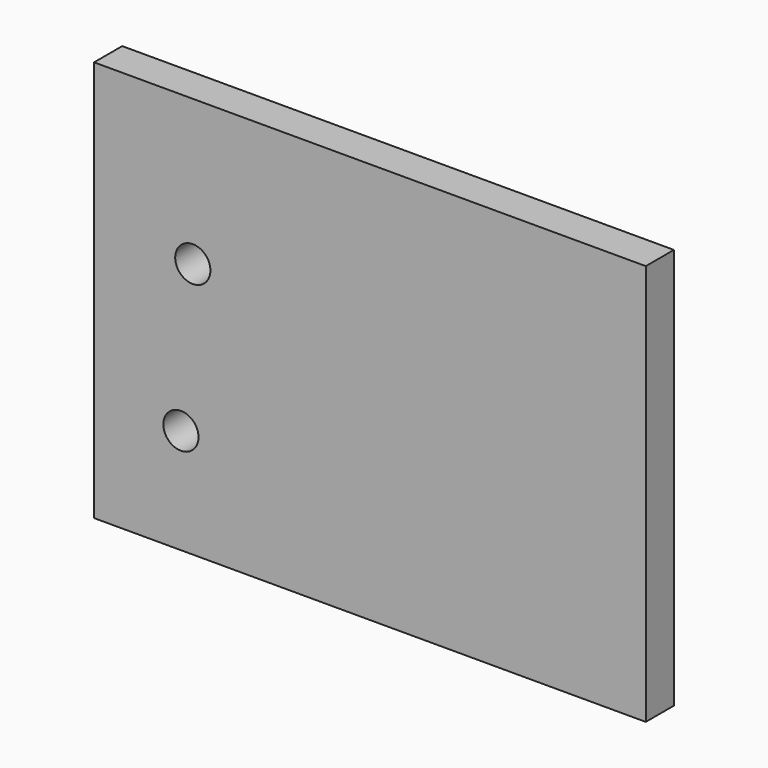
from build123d import *

# Parameters (mm, degrees)
F0_W     = 398.514628
F0_H     = 289.836109
F1_DEPTH = 25.4
F3_D     = 25.4


with BuildPart() as f1:
    # F0 (on Front) → F1 (new body)
    with BuildSketch(Plane.XZ):
        with Locations((199.257314, -144.918054)):
            Rectangle(F0_W, F0_H)
    extrude(amount=F1_DEPTH)

    # F3 (through all)
    with Locations(Plane(origin=(0, 0, 0), x_dir=(-1, 0, 0), z_dir=(0, 1, 0))):
        with Locations((-71.303889, -105.088986), (-62.745899, -213.89471)):
            Hole(F3_D / 2)


solid = f1.part
